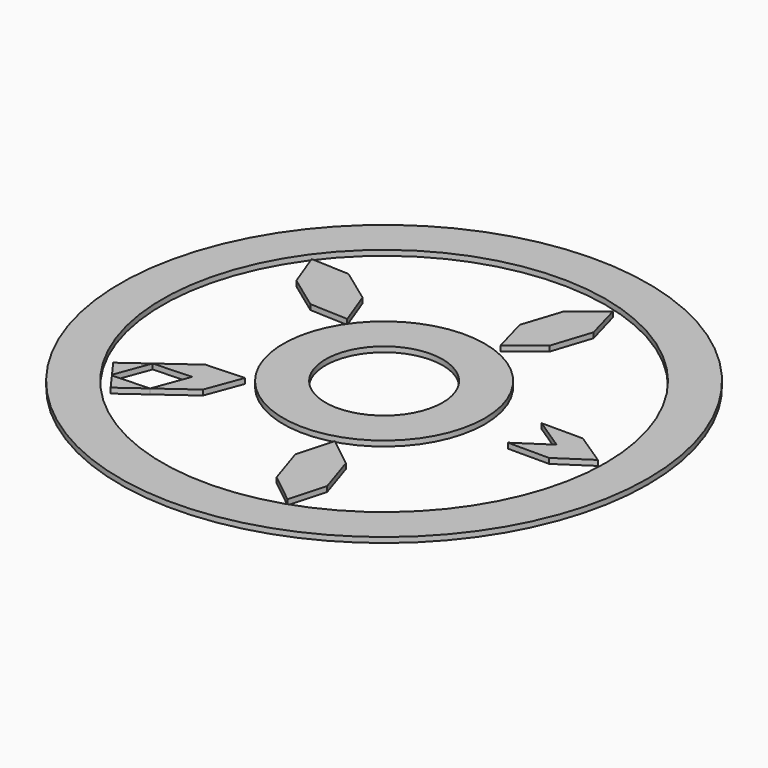
from build123d import *

# Parameters (mm, degrees)
F4_DEPTH  = 1
F6_DEPTH  = 1
F8_COUNT  = 5
F9_R      = 19.0976514215
F11_DEPTH = 1
F10_R     = 11.0976514215
F12_DEPTH = 1.001
F13_R     = 50
F13_R_2   = 42
F14_DEPTH = 1
F15_R     = 42
F15_R_2   = 40.5
F16_DEPTH = 1.001
F19_DEPTH = 1
F21_DEPTH = 1.001
F17_R     = 20.5976514215
F17_R_2   = 19.0976514215
F22_DEPTH = 1.001
F23_DEPTH = 1.001


with BuildPart() as f4:
    # F1 (on Top) → F4 (new body)
    with BuildSketch(Plane.XY):
        Polygon((-36.3298547729, -21.4509126188), (-31.6275727546, -27.9230485738), (-12.7564859662, -14.2124014724), (-17.4587679845, -7.7402655174), align=None)
    extrude(amount=F4_DEPTH)

    # F5 (on Top) → F6 (cut, through all)
    with BuildSketch(Plane.XY):
        Polygon((-25.5248818737, -23.4891841135), (-32.7651882722, -23.8053027178), (-30.227163892, -17.0170481585), (-36.3298547729, -21.4509126188), (-31.6275727546, -27.9230485738), align=None)
        Polygon((-17.4587679845, -7.7402655174), (-23.9041564427, -12.4231143417), (-16.6638500442, -12.1069957374), (-19.2018744244, -18.8952502967), (-12.7564859662, -14.2124014724), align=None)
    extrude(amount=F6_DEPTH, mode=Mode.SUBTRACT)


with BuildPart() as f8_1:
    # F8: instance of F4
    add(f4.part.rotate(Axis((0, 0, 17.3033885658), (0, 0, 1)), 1 * 360 / F8_COUNT))


with BuildPart() as f8_2:
    # F8: instance of F4
    add(f4.part.rotate(Axis((0, 0, 17.3033885658), (0, 0, 1)), 2 * 360 / F8_COUNT))


with BuildPart() as f8_3:
    # F8: instance of F4
    add(f4.part.rotate(Axis((0, 0, 17.3033885658), (0, 0, 1)), 3 * 360 / F8_COUNT))


with BuildPart() as f8_4:
    # F8: instance of F4
    add(f4.part.rotate(Axis((0, 0, 17.3033885658), (0, 0, 1)), 4 * 360 / F8_COUNT))


with BuildPart() as f11:
    # F9 (on Top) → F11 (new body)
    with BuildSketch(Plane.XY):
        Circle(F9_R)
        Circle(F9_R)
    extrude(amount=F11_DEPTH)

    # F10 (on Top) → F12 (cut, through all)
    with BuildSketch(Plane.XY):
        Circle(F10_R)
    extrude(amount=F12_DEPTH, mode=Mode.SUBTRACT)


with BuildPart() as f14:
    # F13 (on Top) → F14 (new body, through all)
    with BuildSketch(Plane.XY):
        Circle(F13_R)
        Circle(F13_R_2, mode=Mode.SUBTRACT)
    extrude(amount=F14_DEPTH)


with BuildPart() as f4_1:
    add(f4.part)

    # F15 (on Top) → F16 (cut, through all)
    with BuildSketch(Plane.XY):
        Circle(F15_R)
        Circle(F15_R_2, mode=Mode.SUBTRACT)
    extrude(amount=F16_DEPTH, mode=Mode.SUBTRACT)

    # F18 (on Top) → F19 (join)
    with BuildSketch(Plane.XY):
        Polygon((-25.5248818737, -23.4891841135), (-30.227163892, -17.0170481585), (-34.956131832, -20.4528444805), (-30.2538498137, -26.9249804355), align=None)
    extrude(amount=F19_DEPTH)


with BuildPart() as f21_tool:
    # F20 (on Top) → F21 (new body, through all)
    with BuildSketch(Plane.XY):
        Polygon((-25.5248818737, -23.4891841135), (-22.9868574935, -16.7009295542), (-30.227163892, -17.0170481585), (-32.7651882722, -23.8053027178), align=None)
        Polygon((26.640992196, 4), (20.5976514215, 0), (26.640992196, -4), (32.6843329704, 0), align=None)
    extrude(amount=F21_DEPTH)


with BuildPart() as f4_2:
    add(f4_1.part)

    # F21: cut by f21_tool
    add(f21_tool.part, mode=Mode.SUBTRACT)

    # F17 (on Top) → F22 (cut, through all)
    with BuildSketch(Plane.XY):
        Circle(F17_R)
        Circle(F17_R_2, mode=Mode.SUBTRACT)
    extrude(amount=F22_DEPTH, mode=Mode.SUBTRACT)

    # F20 (on Top) → F23 (cut, through all)
    with BuildSketch(Plane.XY):
        Polygon((-25.5248818737, -23.4891841135), (-22.9868574935, -16.7009295542), (-30.227163892, -17.0170481585), (-32.7651882722, -23.8053027178), align=None)
    extrude(amount=F23_DEPTH, mode=Mode.SUBTRACT)


with BuildPart() as f8_2_1:
    add(f8_2.part)

    # F21: cut by f21_tool
    add(f21_tool.part, mode=Mode.SUBTRACT)


solid = Compound([f8_1.part, f8_3.part, f8_4.part, f11.part, f14.part, f4_2.part, f8_2_1.part])
